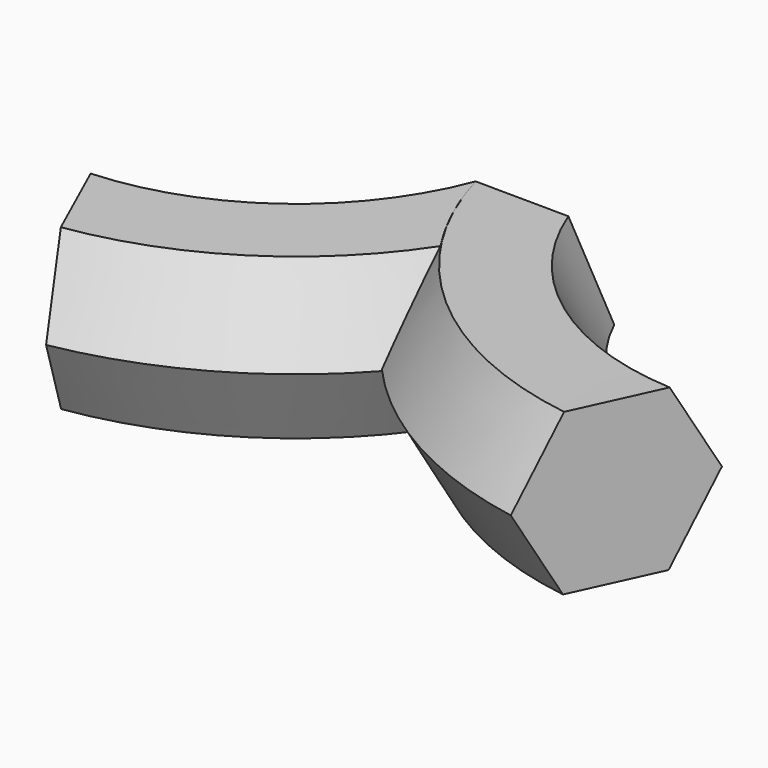
from build123d import *

# Parameters (mm, degrees)
F0_R = 12.7


with BuildPart() as f2:
    # F2: sweep along a path in F1
    with BuildLine(Plane.XY) as f2_path:
        ThreePointArc((-88.857807219, -72.1131786704), (-33.770108767, -49.1903487224), (0, 0))
    # F0 (on Front) → F2 (sweep)
    with BuildSketch(Plane.XZ):
        Polygon((-30.4794730405, 27.0658959038), (-15.3949537232, 0.5802832628), (15.0845193173, 0.401053875), (30.4794730405, 26.7074371281), (15.3949537232, 53.193049769), (-15.0845193173, 53.3722791569), align=None)
        with Locations((0, 26.8866665159)):
            Circle(F0_R, mode=Mode.SUBTRACT)
    sweep(path=f2_path.line)

    # F3: sweep along a path in F1
    with BuildLine(Plane.XY) as f3_path:
        ThreePointArc((88.857807219, -72.1131786704), (33.770108767, -49.1903487224), (0, 0))
    # F0 (on Front) → F3 (sweep)
    with BuildSketch(Plane.XZ):
        Polygon((-30.4794730405, 27.0658959038), (-15.3949537232, 0.5802832628), (15.0845193173, 0.401053875), (30.4794730405, 26.7074371281), (15.3949537232, 53.193049769), (-15.0845193173, 53.3722791569), align=None)
        with Locations((0, 26.8866665159)):
            Circle(F0_R, mode=Mode.SUBTRACT)
        with Locations((0, 26.8866665159)):
            Circle(F0_R)
    sweep(path=f3_path.line)

    # F4: sweep along a path in F1
    with BuildLine(Plane.XY) as f4_path:
        ThreePointArc((-88.857807219, -72.1131786704), (-33.770108767, -49.1903487224), (0, 0))
    # F0 (on Front) → F4 (sweep, cut)
    with BuildSketch(Plane.XZ):
        with Locations((0, 26.8866665159)):
            Circle(F0_R)
    sweep(path=f4_path.line, mode=Mode.SUBTRACT)


solid = f2.part
